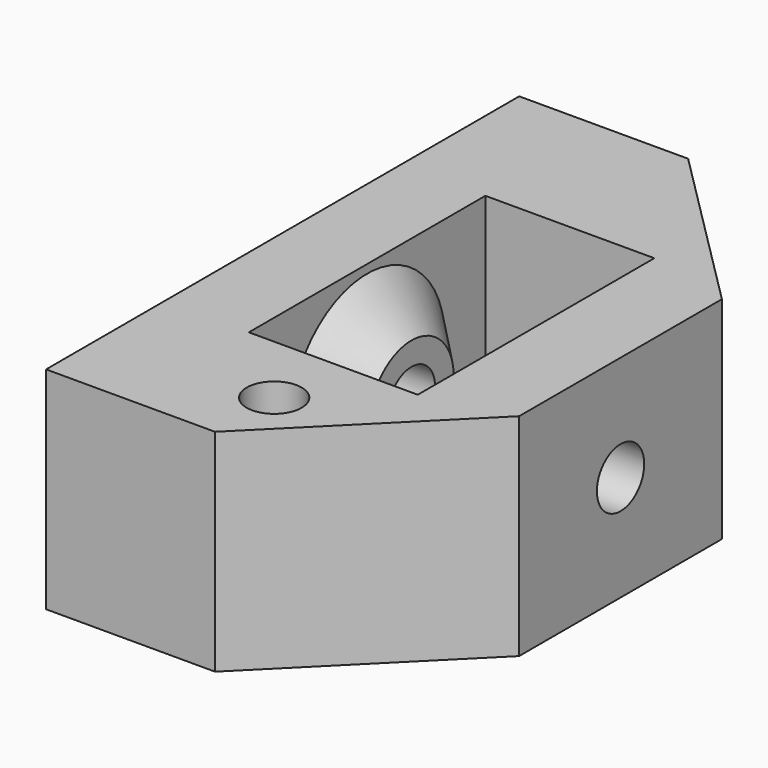
from build123d import *

# Parameters (mm, degrees)
CYLINDER054061_R                           = 1.3
CYLINDER054061_DEPTH                       = 50
CYLINDER054060_R                           = 2.2
CYLINDER054060_DEPTH                       = 20
CYLINDER054060_PITCH_ANGLE                 = 90
CYLINDER054056_R                           = 1.4
CYLINDER054056_DEPTH                       = 40
CYLINDER054056_PITCH_ANGLE                 = 90
BOX112015002017004007004036_W              = 60
BOX112015002017004007004036_H              = 14
BOX112015002017004007004036_DEPTH          = 8
BOX112015002017004007004036_PITCH_ANGLE    = 90
BOX112015002017004007004037_W              = 10
BOX112015002017004007004037_H              = 28
BOX112015002017004007004037_DEPTH          = 16
BOX112015002017004007004037_PITCH_ANGLE    = 90
CHAMFER006012025_SIZE                      = 8
CHAMFER006012026_SIZE                      = 8
CONE012_PITCH_ANGLE                        = 90
PART_MIRRORING005008_PITCH_ANGLE           = 90
BOX112015002017004007004038008_W           = 10
BOX112015002017004007004038008_H           = 28
BOX112015002017004007004038008_DEPTH       = 16
BOX112015002017004007004038008_PITCH_ANGLE = 90


with BuildPart() as cylinder054092:
    # Cylinder054061 → Cylinder054061 (new body)
    with BuildSketch(Plane(origin=(0, -10.5, 7), x_dir=(1, 0, 0), z_dir=(0, 0, 1))):
        Circle(CYLINDER054061_R)
    extrude(amount=CYLINDER054061_DEPTH)


with BuildPart() as cylinder054091:
    # Cylinder054060 → Cylinder054060 (new body)
    with BuildSketch(Plane.XY):
        Circle(CYLINDER054060_R)
    extrude(amount=CYLINDER054060_DEPTH)


with BuildPart() as cylinder054091_1:
    # Cylinder054060 pitch: moved
    add(cylinder054091.part.rotate(Axis((0, 0, 0), (0, 1, 0)), CYLINDER054060_PITCH_ANGLE))


with BuildPart() as cylinder054091_2:
    # Cylinder054060 placement: moved
    add(cylinder054091_1.part.moved(Location((-10, 11, 32))))


with BuildPart() as bearing_m3:
    # Cylinder054056 → Cylinder054056 (new body)
    with BuildSketch(Plane.XY):
        Circle(CYLINDER054056_R)
    extrude(amount=CYLINDER054056_DEPTH)


with BuildPart() as bearing_m3_1:
    # Cylinder054056 pitch: moved
    add(bearing_m3.part.rotate(Axis((0, 0, 0), (0, 1, 0)), CYLINDER054056_PITCH_ANGLE))


with BuildPart() as bearing_m3_2:
    # Cylinder054056 placement: moved
    add(bearing_m3_1.part.moved(Location((-20, 0, 38))))


with BuildPart() as cube119:
    # Box112015002017004007004036 → Box112015002017004007004036 (new body)
    with BuildSketch(Plane.XY):
        with Locations((30, 7)):
            Rectangle(BOX112015002017004007004036_W, BOX112015002017004007004036_H)
    extrude(amount=BOX112015002017004007004036_DEPTH)


with BuildPart() as cube119_1:
    # Box112015002017004007004036 pitch: moved
    add(cube119.part.rotate(Axis((0, 0, 0), (0, 1, 0)), BOX112015002017004007004036_PITCH_ANGLE))


with BuildPart() as cube119_2:
    # Box112015002017004007004036 placement: moved
    add(cube119_1.part.moved(Location((-4, -7, 68))))


with BuildPart() as cut298:
    # Box112015002017004007004037 → Box112015002017004007004037 (new body)
    with BuildSketch(Plane.XY):
        with Locations((5, 14)):
            Rectangle(BOX112015002017004007004037_W, BOX112015002017004007004037_H)
    extrude(amount=BOX112015002017004007004037_DEPTH)


with BuildPart() as cut298_1:
    # Box112015002017004007004037 pitch: moved
    add(cut298.part.rotate(Axis((0, 0, 0), (0, 1, 0)), BOX112015002017004007004037_PITCH_ANGLE))


with BuildPart() as cut298_2:
    # Box112015002017004007004037 placement: moved
    add(cut298_1.part.moved(Location((-8, -14, 43))))

    # Chamfer006012025
    chamfer006012025_edges = [cut298_2.edges().sort_by_distance(p)[0] for p in [
        (8, 14, 38),
    ]]
    chamfer(chamfer006012025_edges, length=CHAMFER006012025_SIZE)

    # Chamfer006012026
    chamfer006012026_edges = [cut298_2.edges().sort_by_distance(p)[0] for p in [
        (8, -14, 38),
    ]]
    chamfer(chamfer006012026_edges, length=CHAMFER006012026_SIZE)

    # Cut298: cut Cube119
    add(cube119_2.part, mode=Mode.SUBTRACT)


with BuildPart() as cone012:
    # Cone012 → Cone012 (revolve)
    with BuildSketch(Plane.XZ):
        Polygon((0, 0), (2.5, 0), (5.5, 3), (0, 3), align=None)
    revolve(axis=Axis((0, 0, 0), (0, 0, 1)))


with BuildPart() as cone012_1:
    # Cone012 pitch: moved
    add(cone012.part.rotate(Axis((0, 0, 0), (0, 1, 0)), CONE012_PITCH_ANGLE))


with BuildPart() as cone012_2:
    # Cone012 placement: moved
    add(cone012_1.part.moved(Location((1.9, 0, 38))))


with BuildPart() as cone011:
    # Cone011 → Cone011 (revolve)
    with BuildSketch(Plane(origin=(0, 0, 2), x_dir=(1, 0, 0), z_dir=(0, -1, 0))):
        Polygon((0, 0), (2.5, 0), (5.5, 3), (0, 3), align=None)
    revolve(axis=Axis((0, 0, 2), (0, 0, 1)))


with BuildPart() as bearing_cones:
    # Part__Mirroring005008: instance of Cone011
    add(cone011.part.mirror(Plane(origin=(0, 0, 0), x_dir=(0, 1, 0), z_dir=(0, 0, 1))))


with BuildPart() as bearing_cones_1:
    # Part__Mirroring005008 pitch: moved
    add(bearing_cones.part.rotate(Axis((0, 0, 0), (0, 1, 0)), PART_MIRRORING005008_PITCH_ANGLE))


with BuildPart() as bearing_cones_2:
    # Part__Mirroring005008 placement: moved
    add(bearing_cones_1.part.moved(Location((0.1, 0, 38))))

    # Fusion051010010012015014027: union Cone012
    add(cone012_2.part)


with BuildPart() as wire_tensioner:
    # Box112015002017004007004038008 → Box112015002017004007004038008 (new body)
    with BuildSketch(Plane.XY):
        with Locations((5, 14)):
            Rectangle(BOX112015002017004007004038008_W, BOX112015002017004007004038008_H)
    extrude(amount=BOX112015002017004007004038008_DEPTH)


with BuildPart() as wire_tensioner_1:
    # Box112015002017004007004038008 pitch: moved
    add(wire_tensioner.part.rotate(Axis((0, 0, 0), (0, 1, 0)), BOX112015002017004007004038008_PITCH_ANGLE))


with BuildPart() as wire_tensioner_2:
    # Box112015002017004007004038008 placement: moved
    add(wire_tensioner_1.part.moved(Location((-8, -14, 43))))

    # Common010: intersect bearing-cones
    add(bearing_cones_2.part, mode=Mode.INTERSECT)

    # Fusion051010010012015014034: union Cut298
    add(cut298_2.part)

    # Cut299: cut bearing-M3
    add(bearing_m3_2.part, mode=Mode.SUBTRACT)

    # Cut300: cut Cylinder054091
    add(cylinder054091_2.part, mode=Mode.SUBTRACT)

    # Cut301: cut Cylinder054092
    add(cylinder054092.part, mode=Mode.SUBTRACT)


with BuildPart() as wire_tensioner_3:
    # Cut301 placement: moved
    add(wire_tensioner_2.part.moved(Location((0, 0, 54))))


solid = wire_tensioner_3.part
